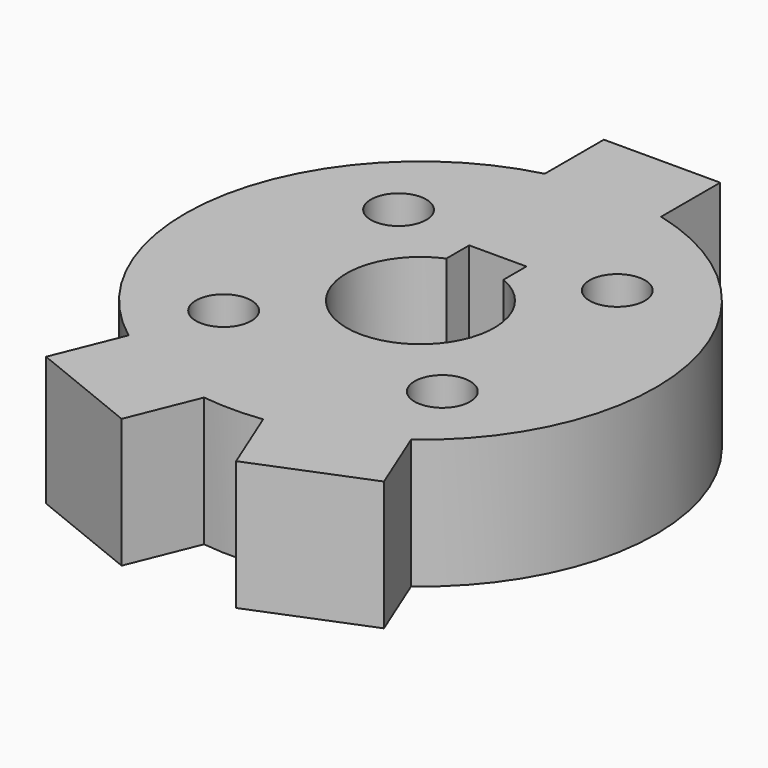
from build123d import *

# Parameters (mm, degrees)
F1_DEPTH = 7
F2_R     = 1.5
F3_DEPTH = 7


with BuildPart() as f1:
    # F0 (on Top) → F1 (new body)
    with BuildSketch(Plane.XY):
        with BuildLine():
            Line((9.15, -13.908354), (7.649261, -10.200554))
            ThreePointArc((7.649261, -10.200554), (12.50366, 2.49419), (3.15, 12.354756))
            Line((3.15, 12.354756), (3.15, 16.354756))
            Line((3.15, 16.354756), (0, 16.354756))
            Line((0, 16.354756), (-3.15, 16.354756))
            Line((-3.15, 16.354756), (-3.15, 12.354756))
            ThreePointArc((-3.15, 12.354756), (-12.50366, 2.49419), (-7.649261, -10.200554))
            Line((-7.649261, -10.200554), (-9.15, -13.908354))
            Line((-9.15, -13.908354), (-3.1, -16.357103))
            Line((-3.1, -16.357103), (-1.599261, -12.649303))
            ThreePointArc((-1.599261, -12.649303), (0, -12.75), (1.599261, -12.649303))
            Line((1.599261, -12.649303), (3.1, -16.357103))
            Line((3.1, -16.357103), (9.15, -13.908354))
        make_face()
    extrude(amount=F1_DEPTH)

    # F2 (on face) → F3 (cut, through all)
    with BuildSketch(Plane.XY.offset(7)):
        with BuildLine():
            Line((-1.55, 5.237479), (-1.55, 3.687479))
            ThreePointArc((-1.55, 3.687479), (0, -4), (1.55, 3.687479))
            Line((1.55, 3.687479), (1.55, 5.237479))
            Line((1.55, 5.237479), (0, 5.237479))
            Line((0, 5.237479), (-1.55, 5.237479))
        make_face()
        with Locations((-5.922019, 5.922019)):
            Circle(F2_R)
        with Locations((-5.922019, -5.922019)):
            Circle(F2_R)
        with Locations((5.922019, -5.922019)):
            Circle(F2_R)
        with Locations((5.922019, 5.922019)):
            Circle(F2_R)
    extrude(amount=-F3_DEPTH, mode=Mode.SUBTRACT)


solid = f1.part
